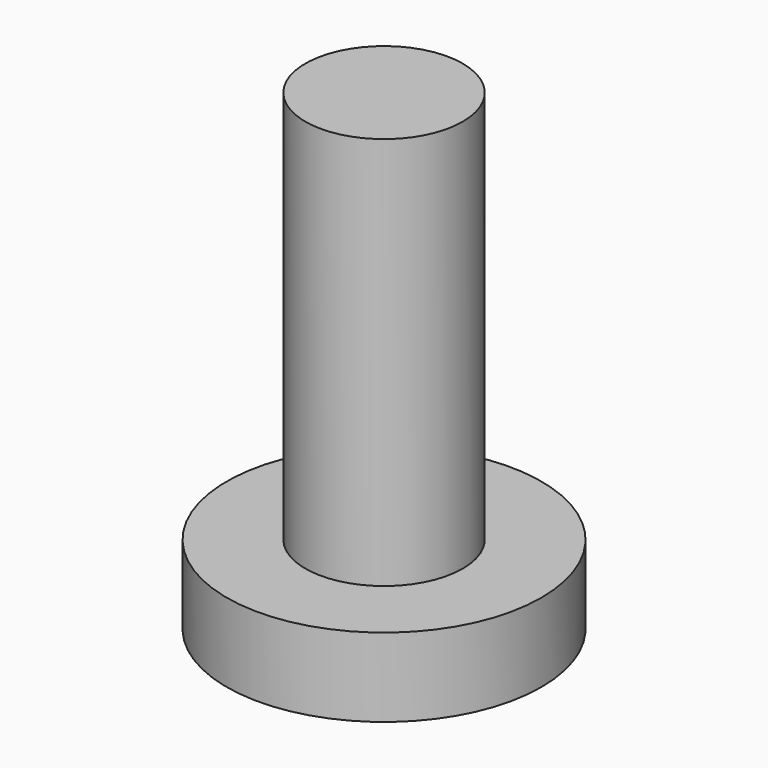
from build123d import *

# Parameters (mm, degrees)
F0_R     = 10
F0_R_2   = 5
F1_DEPTH = 5
F0_R_3   = 3
F2_DEPTH = 25
F3_R     = 5
F4_DEPTH = 5


with BuildPart() as f1:
    # F0 (on Top) → F1 (new body)
    with BuildSketch(Plane.XY):
        with Locations((-26.698679, 11.628508)):
            Circle(F0_R)
        with Locations((-26.698679, 11.628508)):
            Circle(F0_R_2, mode=Mode.SUBTRACT)
    extrude(amount=F1_DEPTH)

    # F0 (on Top) → F2 (join)
    with BuildSketch(Plane.XY):
        with Locations((-26.698679, 11.628508)):
            Circle(F0_R_2)
        with Locations((-26.698679, 11.628508)):
            Circle(F0_R_3, mode=Mode.SUBTRACT)
    extrude(amount=F2_DEPTH)

    # F3 (on face) → F4 (join)
    with BuildSketch(Plane.XY.offset(25)):
        with Locations((-26.698679, 11.628508)):
            Circle(F3_R)
    extrude(amount=F4_DEPTH)


solid = f1.part
